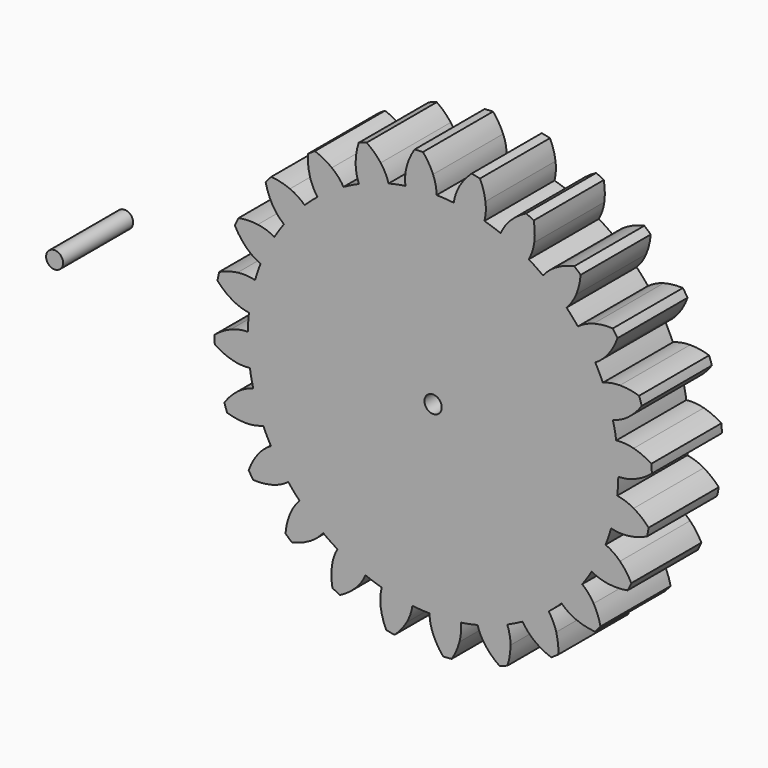
from build123d import *

# Parameters (mm, degrees)
F1_DEPTH = 25.4
F2_COUNT = 24
F2_ANGLE = 345
F5_D     = 5
F6_R     = 2.4658043738
F7_DEPTH = 25.4


with BuildPart() as f1:
    # F0 (on Front) → F1 (new body)
    with BuildSketch(Plane.XZ):
        with BuildLine():
            ThreePointArc((-8.0301609713, 53.117439281), (-35.0325388993, -40.7267364181), (53.721, 0))
            ThreePointArc((53.721, 0), (38.3482996803, 37.6211875494), (1.0282447412, 53.711158559))
            ThreePointArc((1.0282447412, 53.711158559), (-3.5135215054, 53.6059792153), (-8.0301609713, 53.117439281))
        make_face()
        with BuildLine():
            ThreePointArc((-8.0301609713, 53.117439281), (-3.5135215054, 53.6059792153), (1.0282447412, 53.711158559))
            ThreePointArc((1.0282447412, 53.711158559), (0.7474984018, 56.2409321595), (0, 58.674))
            ThreePointArc((0, 58.674), (-1.2723481319, 61.1699284948), (-2.9242252292, 63.4326328226))
            ThreePointArc((-2.9242252292, 63.4326328226), (-4.1538775272, 63.3759241398), (-5.3804119479, 63.2716458398))
            ThreePointArc((-5.3804119479, 63.2716458398), (-6.7228148275, 60.8126860336), (-7.6584938023, 58.1720357962))
            ThreePointArc((-7.6584938023, 58.1720357962), (-8.0820181711, 55.6622150684), (-8.0301609713, 53.117439281))
        make_face()
    extrude(amount=F1_DEPTH)


with BuildPart() as f2_1:
    # F2: instance of F1
    add(f1.part.rotate(Axis((0, 0, 0), (0, 1, 0)), 1 * F2_ANGLE / (F2_COUNT - 1)))


with BuildPart() as f2_2:
    # F2: instance of F1
    add(f1.part.rotate(Axis((0, 0, 0), (0, 1, 0)), 2 * F2_ANGLE / (F2_COUNT - 1)))


with BuildPart() as f2_3:
    # F2: instance of F1
    add(f1.part.rotate(Axis((0, 0, 0), (0, 1, 0)), 3 * F2_ANGLE / (F2_COUNT - 1)))


with BuildPart() as f2_4:
    # F2: instance of F1
    add(f1.part.rotate(Axis((0, 0, 0), (0, 1, 0)), 4 * F2_ANGLE / (F2_COUNT - 1)))


with BuildPart() as f2_5:
    # F2: instance of F1
    add(f1.part.rotate(Axis((0, 0, 0), (0, 1, 0)), 5 * F2_ANGLE / (F2_COUNT - 1)))


with BuildPart() as f2_6:
    # F2: instance of F1
    add(f1.part.rotate(Axis((0, 0, 0), (0, 1, 0)), 6 * F2_ANGLE / (F2_COUNT - 1)))


with BuildPart() as f2_7:
    # F2: instance of F1
    add(f1.part.rotate(Axis((0, 0, 0), (0, 1, 0)), 7 * F2_ANGLE / (F2_COUNT - 1)))


with BuildPart() as f2_8:
    # F2: instance of F1
    add(f1.part.rotate(Axis((0, 0, 0), (0, 1, 0)), 8 * F2_ANGLE / (F2_COUNT - 1)))


with BuildPart() as f2_9:
    # F2: instance of F1
    add(f1.part.rotate(Axis((0, 0, 0), (0, 1, 0)), 9 * F2_ANGLE / (F2_COUNT - 1)))


with BuildPart() as f2_10:
    # F2: instance of F1
    add(f1.part.rotate(Axis((0, 0, 0), (0, 1, 0)), 10 * F2_ANGLE / (F2_COUNT - 1)))


with BuildPart() as f2_11:
    # F2: instance of F1
    add(f1.part.rotate(Axis((0, 0, 0), (0, 1, 0)), 11 * F2_ANGLE / (F2_COUNT - 1)))


with BuildPart() as f2_12:
    # F2: instance of F1
    add(f1.part.rotate(Axis((0, 0, 0), (0, 1, 0)), 12 * F2_ANGLE / (F2_COUNT - 1)))


with BuildPart() as f2_13:
    # F2: instance of F1
    add(f1.part.rotate(Axis((0, 0, 0), (0, 1, 0)), 13 * F2_ANGLE / (F2_COUNT - 1)))


with BuildPart() as f2_14:
    # F2: instance of F1
    add(f1.part.rotate(Axis((0, 0, 0), (0, 1, 0)), 14 * F2_ANGLE / (F2_COUNT - 1)))


with BuildPart() as f2_15:
    # F2: instance of F1
    add(f1.part.rotate(Axis((0, 0, 0), (0, 1, 0)), 15 * F2_ANGLE / (F2_COUNT - 1)))


with BuildPart() as f2_16:
    # F2: instance of F1
    add(f1.part.rotate(Axis((0, 0, 0), (0, 1, 0)), 16 * F2_ANGLE / (F2_COUNT - 1)))


with BuildPart() as f2_17:
    # F2: instance of F1
    add(f1.part.rotate(Axis((0, 0, 0), (0, 1, 0)), 17 * F2_ANGLE / (F2_COUNT - 1)))


with BuildPart() as f2_18:
    # F2: instance of F1
    add(f1.part.rotate(Axis((0, 0, 0), (0, 1, 0)), 18 * F2_ANGLE / (F2_COUNT - 1)))


with BuildPart() as f2_19:
    # F2: instance of F1
    add(f1.part.rotate(Axis((0, 0, 0), (0, 1, 0)), 19 * F2_ANGLE / (F2_COUNT - 1)))


with BuildPart() as f2_20:
    # F2: instance of F1
    add(f1.part.rotate(Axis((0, 0, 0), (0, 1, 0)), 20 * F2_ANGLE / (F2_COUNT - 1)))


with BuildPart() as f2_21:
    # F2: instance of F1
    add(f1.part.rotate(Axis((0, 0, 0), (0, 1, 0)), 21 * F2_ANGLE / (F2_COUNT - 1)))


with BuildPart() as f2_22:
    # F2: instance of F1
    add(f1.part.rotate(Axis((0, 0, 0), (0, 1, 0)), 22 * F2_ANGLE / (F2_COUNT - 1)))


with BuildPart() as f2_23:
    # F2: instance of F1
    add(f1.part.rotate(Axis((0, 0, 0), (0, 1, 0)), 23 * F2_ANGLE / (F2_COUNT - 1)))


with BuildPart() as f2_21_1:
    add(f2_21.part)

    # F3: union F2_2, F2_11, F2_20, F2_19, F2_1, F2_15, F1, F2_7, F2_22, F2_16, F2_4, F2_12, F2_13, F2_9, F2_8, F2_10, F2_6, F2_14, F2_3, F2_5, F2_23, F2_17, F2_18
    add(f2_2.part)
    add(f2_11.part)
    add(f2_20.part)
    add(f2_19.part)
    add(f2_1.part)
    add(f2_15.part)
    add(f1.part)
    add(f2_7.part)
    add(f2_22.part)
    add(f2_16.part)
    add(f2_4.part)
    add(f2_12.part)
    add(f2_13.part)
    add(f2_9.part)
    add(f2_8.part)
    add(f2_10.part)
    add(f2_6.part)
    add(f2_14.part)
    add(f2_3.part)
    add(f2_5.part)
    add(f2_23.part)
    add(f2_17.part)
    add(f2_18.part)

    # F5 (through all)
    with Locations(Plane.XZ.offset(25.4)):
        with Locations((0, 0)):
            Hole(F5_D / 2)


with BuildPart() as f7:
    # F6 (on face) → F7 (new body)
    with BuildSketch(Plane.XZ.offset(25.4)):
        with Locations((-89.4274711609, 18.1049481034)):
            Circle(F6_R)
    extrude(amount=F7_DEPTH)


solid = Compound([f2_21_1.part, f7.part])
